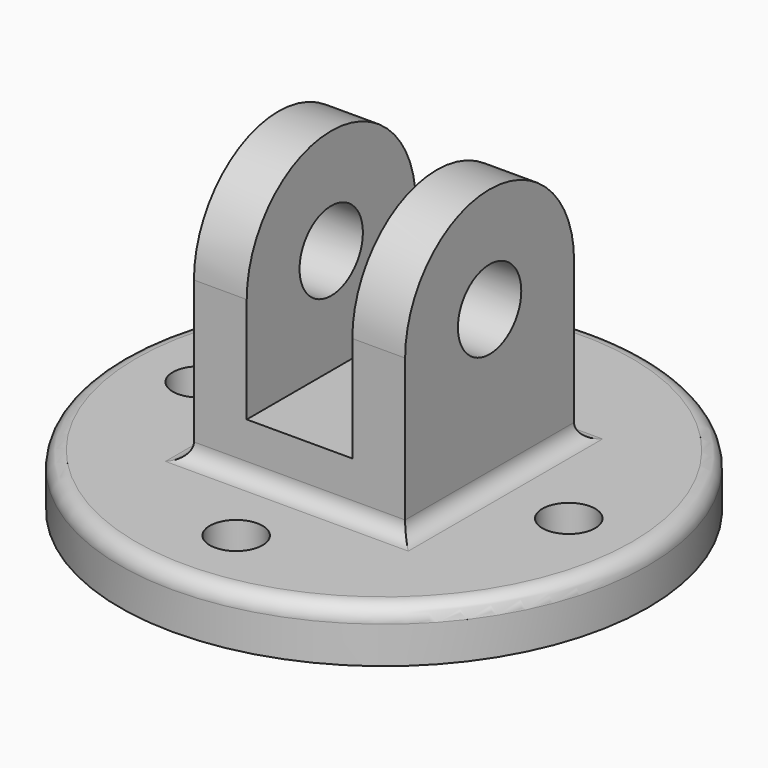
from build123d import *

# Parameters (mm, degrees)
F0_R     = 63.5
F0_R_2   = 6.35
F1_DEPTH = 12.7
F2_R     = 9.525
F3_DEPTH = 25.4
F4_W     = 25.4
F4_H     = 25.4
F5_DEPTH = 88.901
F6_R     = 3.81


with BuildPart() as f1:
    # F0 (on Top) → F1 (new body)
    with BuildSketch(Plane.XY):
        Circle(F0_R)
        with Locations((0, -44.45)):
            Circle(F0_R_2, mode=Mode.SUBTRACT)
        with Locations((-44.45, 0)):
            Circle(F0_R_2, mode=Mode.SUBTRACT)
        with Locations((44.45, 0)):
            Circle(F0_R_2, mode=Mode.SUBTRACT)
        with Locations((0, 44.45)):
            Circle(F0_R_2, mode=Mode.SUBTRACT)
    extrude(amount=-F1_DEPTH)

    # F2 (on Right) → F3 (join, symmetric)
    with BuildSketch(Plane.YZ):
        with BuildLine():
            Line((-25.4, 38.1), (-25.4, 0))
            Line((-25.4, 0), (25.4, 0))
            Line((25.4, 0), (25.4, 38.1))
            ThreePointArc((25.4, 38.1), (0, 63.5), (-25.4, 38.1))
        make_face()
        with Locations((0, 38.1)):
            Circle(F2_R, mode=Mode.SUBTRACT)
    extrude(amount=F3_DEPTH, both=True)

    # F4 (on face) → F5 (cut, through all)
    with BuildSketch(Plane.XZ.offset(25.4)):
        Polygon((0, 63.5), (-12.7, 63.5), (-12.7, 38.1), (12.7, 38.1), (12.7, 63.5), align=None)
        with Locations((0, 25.4)):
            Rectangle(F4_W, F4_H)
    extrude(amount=-F5_DEPTH, mode=Mode.SUBTRACT)

    # F6
    f6_edges = [f1.edges().sort_by_distance(p)[0] for p in [
        (0, -25.4, 0),
        (25.4, 0, 0),
        (-25.4, 0, 0),
        (0, 25.4, 0),
        (-63.5, 0, 0),
    ]]
    fillet(f6_edges, radius=F6_R)


solid = f1.part
